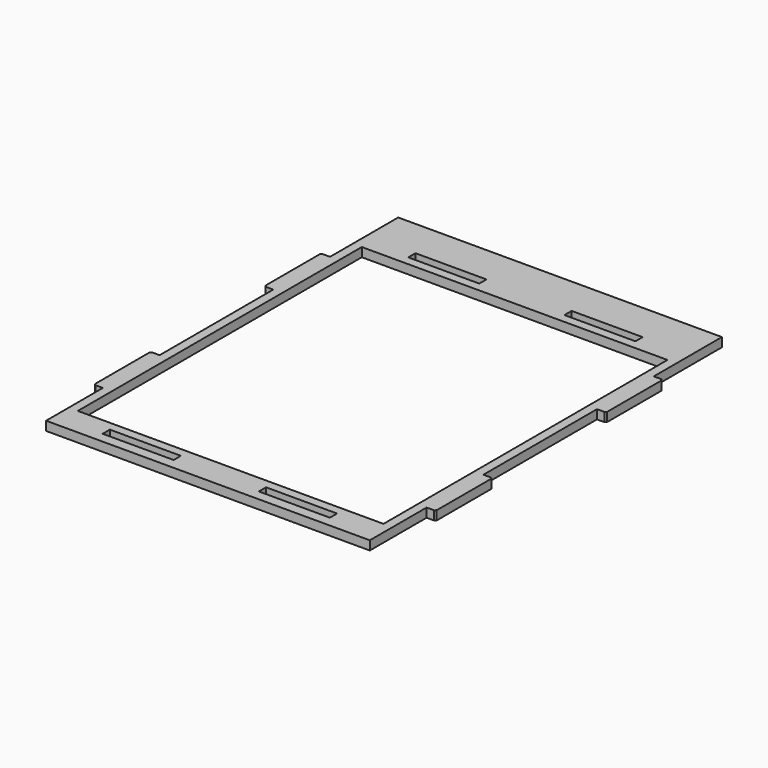
from build123d import *

# Parameters (mm, degrees)
F0_W     = 100
F0_H     = 12.7
F0_W_2   = 430.6
F0_H_2   = 500
F1_DEPTH = 12.7
F2_SIZE  = 2


with BuildPart() as f1:
    # F0 (on Top) → F1 (new body)
    with BuildSketch(Plane.XY):
        Polygon((-228, -310), (228, -310), (228, -210), (240.7, -210), (240.7, -110), (228, -110), (228, 90), (240.7, 90), (240.7, 190), (228, 190), (228, 310), (-228, 310), (-228, 190), (-240.7, 190), (-240.7, 90), (-228, 90), (-228, -110), (-240.7, -110), (-240.7, -210), (-228, -210), align=None)
        with Locations((-110, -289.05)):
            Rectangle(F0_W, F0_H, mode=Mode.SUBTRACT)
        with Locations((0, -20)):
            Rectangle(F0_W_2, F0_H_2, mode=Mode.SUBTRACT)
        with Locations((110, -289.05)):
            Rectangle(F0_W, F0_H, mode=Mode.SUBTRACT)
        with Locations((-110, 249.05)):
            Rectangle(F0_W, F0_H, mode=Mode.SUBTRACT)
        with Locations((110, 249.05)):
            Rectangle(F0_W, F0_H, mode=Mode.SUBTRACT)
    extrude(amount=F1_DEPTH)

    # F2
    f2_edges = [f1.edges().sort_by_distance(p)[0] for p in [
        (240.7, -110, 6.35),
        (240.7, -210, 6.35),
        (240.7, 190, 6.35),
        (240.7, 90, 6.35),
        (-240.7, 190, 6.35),
        (-240.7, 90, 6.35),
        (-240.7, -110, 6.35),
        (-240.7, -210, 6.35),
    ]]
    chamfer(f2_edges, length=F2_SIZE)


solid = f1.part
